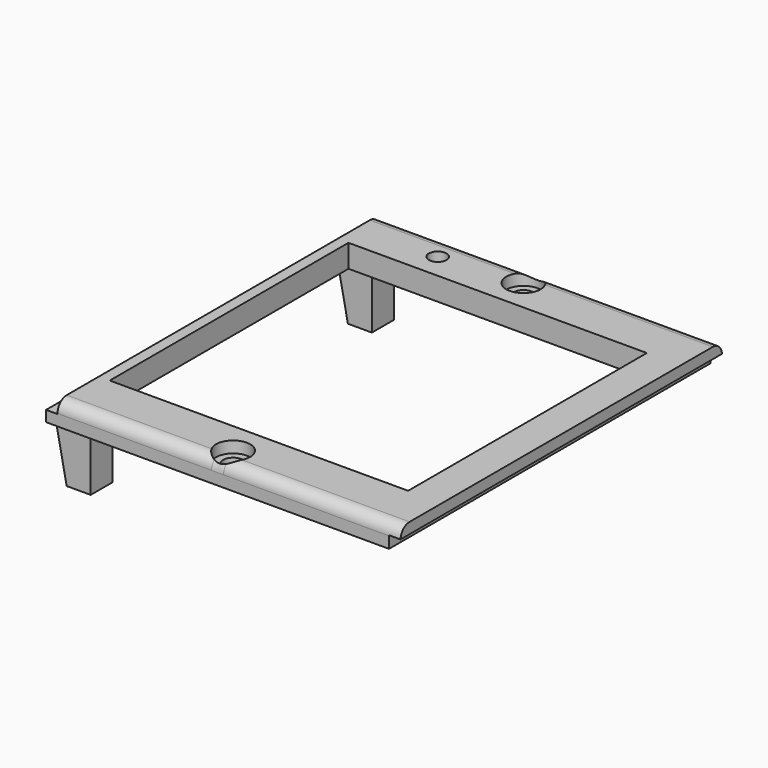
from build123d import *

# Parameters (mm, degrees)
SKETCH077_W          = 62
SKETCH077_H          = 70.3
SKETCH077_R          = 1.75
SKETCH077_R_2        = 1.55
SKETCH077_W_2        = 52.2
SKETCH077_H_2        = 52.2
PAD021_DEPTH         = 4
FILLET009_R          = 2
SKETCH078_W          = 2
SKETCH078_H          = 2.1
POCKET050_DEPTH      = 35.151
POCKET050_DEPTH_BACK = 35.151
SKETCH079_R          = 3
POCKET028_DEPTH      = 2.001
SKETCH081_W          = 4.202
SKETCH081_H          = 4.8
PAD023_DEPTH         = 10
CHAMFER003_SIZE2     = 9.99
CHAMFER003_SIZE      = 1.99


with BuildPart() as part:
    # Sketch077 → Pad021 (new body)
    with BuildSketch(Plane.XY):
        with Locations((1, 0)):
            Rectangle(SKETCH077_W, SKETCH077_H)
        with Locations((0, 31.75)):
            Circle(SKETCH077_R, mode=Mode.SUBTRACT)
        with Locations((0, -31.75)):
            Circle(SKETCH077_R, mode=Mode.SUBTRACT)
        with Locations((-14, 30.5)):
            Circle(SKETCH077_R_2, mode=Mode.SUBTRACT)
        Rectangle(SKETCH077_W_2, SKETCH077_H_2, mode=Mode.SUBTRACT)
    extrude(amount=PAD021_DEPTH)

    # Fillet009
    fillet009_edges = [part.edges().sort_by_distance(p)[0] for p in [
        (1, 35.15, 4),
        (1, -35.15, 4),
    ]]
    fillet(fillet009_edges, radius=FILLET009_R)

    # Sketch078 → Pocket050 (cut, two sides)
    with BuildSketch(Plane.XZ) as pocket050_sk:
        with Locations((-29, 2.95)):
            Rectangle(SKETCH078_W, SKETCH078_H)
        with Locations((31, 1.05)):
            Rectangle(SKETCH078_W, SKETCH078_H)
    extrude(amount=-POCKET050_DEPTH, mode=Mode.SUBTRACT)
    extrude(pocket050_sk.sketch, amount=POCKET050_DEPTH_BACK, mode=Mode.SUBTRACT)

    # Sketch079 → Pocket028 (cut, through all)
    with BuildSketch(Plane.XY.offset(2)):
        with Locations((0, -31.75)):
            Circle(SKETCH079_R)
        with Locations((0, 31.75)):
            Circle(SKETCH079_R)
    extrude(amount=POCKET028_DEPTH, mode=Mode.SUBTRACT)

    # Sketch081 → Pad023 (join)
    with BuildSketch(Plane.XY):
        with Locations((-25.899, 30.75)):
            Rectangle(SKETCH081_W, SKETCH081_H)
        with Locations((-25.899, -30.75)):
            Rectangle(SKETCH081_W, SKETCH081_H)
    extrude(amount=-PAD023_DEPTH)

    # Chamfer003
    chamfer003_edges = [part.edges().sort_by_distance(p)[0] for p in [
        (-28, 30.75, 0),
        (-28, -30.75, 0),
    ]]
    chamfer003_side = part.faces().sort_by_distance((-29.075766, 0, 0))[0]
    chamfer(chamfer003_edges, length=CHAMFER003_SIZE, length2=CHAMFER003_SIZE2, reference=chamfer003_side)


with BuildPart() as part_1:
    # Body043 placement: moved
    add(part.part.moved(Location((0, 0, 46))))


solid = part_1.part
